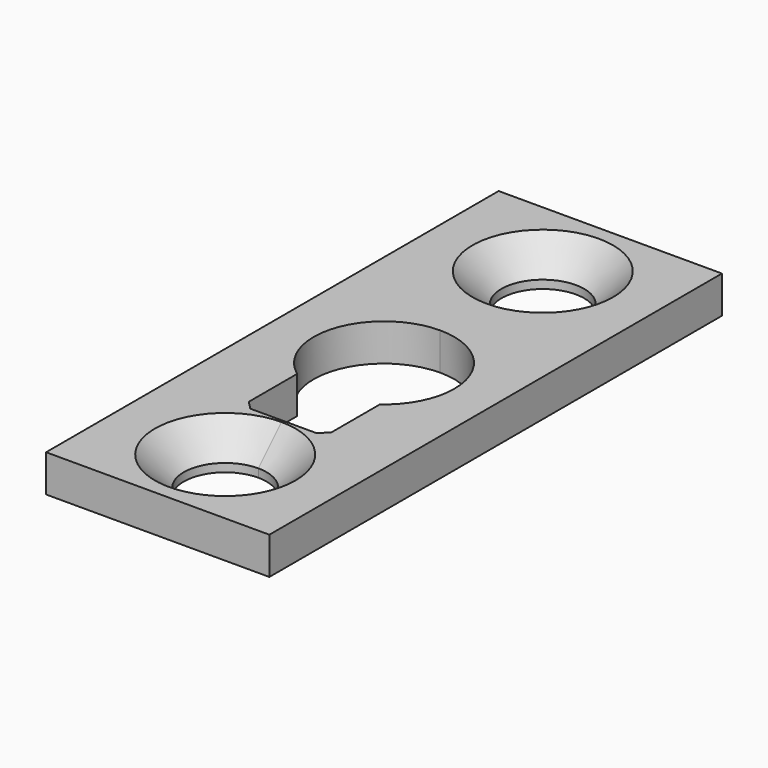
from build123d import *

# Parameters (mm, degrees)
F0_W     = 13.5
F0_H     = 34.2
F1_DEPTH = 2.25
F2_SIZE  = 0.5
F3_SIZE  = 1.75


with BuildPart() as f1:
    # F0 (on Top) → F1 (new body)
    with BuildSketch(Plane.XY):
        Rectangle(F0_W, F0_H)
        with BuildLine():
            ThreePointArc((2.5, -12), (-1.767766953, -13.767766953), (0, -9.5))
            ThreePointArc((0, -9.5), (1.767766953, -10.232233047), (2.5, -12))
        make_face(mode=Mode.SUBTRACT)
        with BuildLine():
            ThreePointArc((-2.5, -3.4369317712), (-4.041624675, 1.3144466464), (0, 4.25))
            ThreePointArc((0, 4.25), (3.00520382, 3.00520382), (4.25, 0))
            ThreePointArc((4.25, 0), (3.7873143519, -1.9284060776), (2.5, -3.4369317712))
            Line((2.5, -3.4369317712), (2.5, -7.6))
            Line((2.5, -7.6), (0, -7.6))
            Line((0, -7.6), (-2.5, -7.6))
            Line((-2.5, -7.6), (-2.5, -3.4369317712))
        make_face(mode=Mode.SUBTRACT)
        with BuildLine():
            ThreePointArc((2.5, 12), (1.767766953, 10.232233047), (0, 9.5))
            ThreePointArc((0, 9.5), (-1.767766953, 13.767766953), (2.5, 12))
        make_face(mode=Mode.SUBTRACT)
    extrude(amount=F1_DEPTH)

    # F2
    f2_edges = [f1.edges().sort_by_distance(p)[0] for p in [
        (-2.5, -7.6, 1.125),
        (2.5, -7.6, 1.125),
    ]]
    chamfer(f2_edges, length=F2_SIZE)

    # F3
    f3_edges = [f1.edges().sort_by_distance(p)[0] for p in [
        (0, -14.5, 2.25),
        (-2.5, 12, 2.25),
    ]]
    chamfer(f3_edges, length=F3_SIZE)


solid = f1.part
